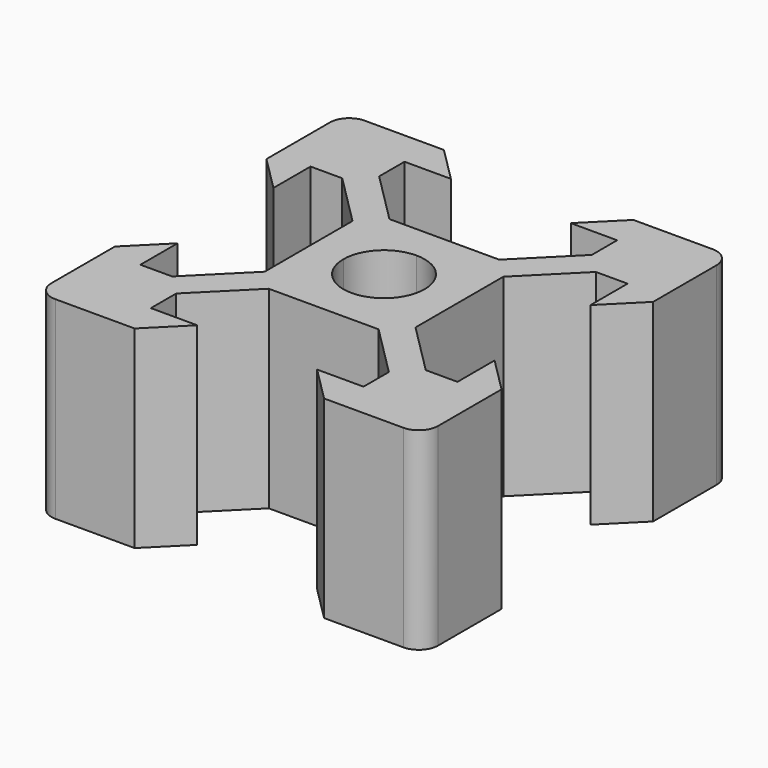
from build123d import *

# Parameters (mm, degrees)
PAD_DEPTH          = 5
POLARPATTERN_COUNT = 4


with BuildPart() as part:
    # Sketch → Pad (new body, symmetric)
    with BuildSketch(Plane.XY):
        with BuildLine():
            Line((-4.9, 10), (-3.1, 8.2))
            Line((-3.1, 8.2), (-5.49934, 8.2))
            Line((-5.49934, 8.2), (-5.49934, 6.56))
            Line((-5.49934, 6.56), (-2.84, 3.90066))
            Line((-2.84, 3.90066), (0, 3.90066))
            Line((0, 3.90066), (0, 2.1))
            ThreePointArc((0, 2.1), (-1.484924, 1.484924), (-2.1, 0))
            Line((-3.90066, 0), (-2.1, 0))
            Line((-3.90066, 0), (-3.90066, 2.84))
            Line((-3.90066, 2.84), (-6.56, 5.49934))
            Line((-6.56, 5.49934), (-8.2, 5.49934))
            Line((-8.2, 5.49934), (-8.2, 3.1))
            Line((-8.2, 3.1), (-10, 4.9))
            Line((-10, 4.9), (-10, 9))
            ThreePointArc((-9, 10), (-9.707107, 9.707107), (-10, 9))
            Line((-4.9, 10), (-9, 10))
        make_face()
    pad = extrude(amount=PAD_DEPTH, both=True)

    # PolarPattern: Pad ×4 about axis
    polarpattern_axis = Axis((0, 0, 0), (0, 0, 1))
    for i in range(1, POLARPATTERN_COUNT):
        add(pad.rotate(polarpattern_axis, i * 360 / POLARPATTERN_COUNT))


solid = part.part
